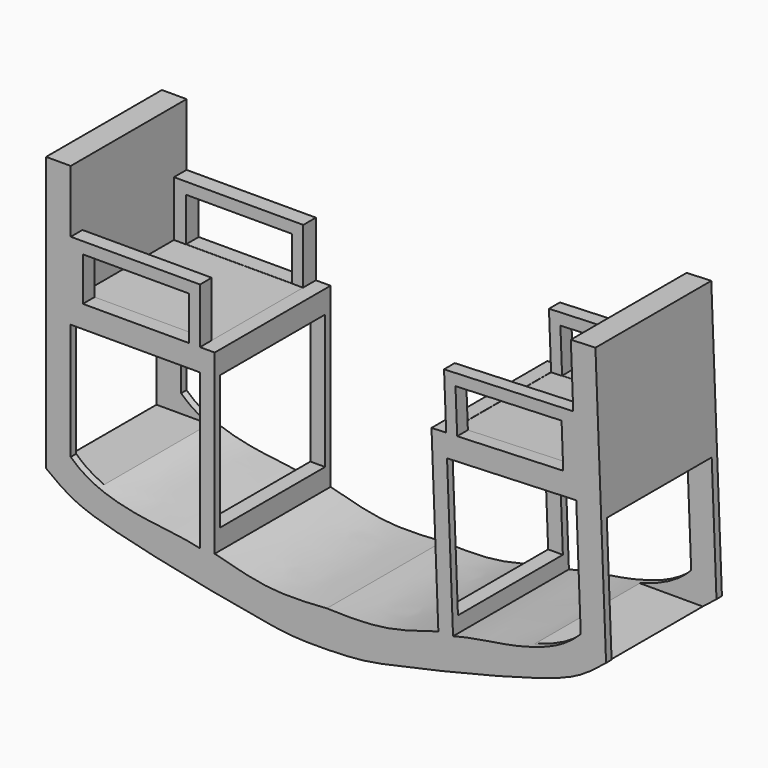
from build123d import *

# Parameters (mm, degrees)
F1_DEPTH = 25.4
F2_W     = 23.002351285
F2_H     = 23.5382290557
F3_DEPTH = 200
F4_W     = 22.6789787412
F4_H     = 20.0632547494
F5_DEPTH = 9.7
F6_W     = 22.6789787412
F6_H     = 20.6567810383
F7_DEPTH = 9.7


with BuildPart() as f1:
    # F0 (on Front) → F1 (new body)
    with BuildSketch(Plane.XZ):
        with BuildLine():
            Line((-88.0114324391, 44.9371878058), (-92.332277447, 44.9371878058))
            Line((-92.332277447, 44.9371878058), (-92.332277447, -3.1727263704))
            add(Edge.make_bspline(
                [(-92.332277447, -3.1727263704), (-90.1621250206, -4.8428116353), (-87.3784565002, -6.7092328778), (-81.1715490314, -8.8067426399), (-68.3223344623, -11.7452096222), (-52.7487966745, -14.6124342412), (-48.5107222082, -15.2044240054), (-42.9695285857, -15.1135046035)],
                knots=[0, 0, 0, 0, 0.1061199285, 0.2106615838, 0.3682095287, 0.5326224088, 0.6725216292, 0.6725216292, 0.6725216292, 0.6725216292], degree=3))
            Line((-42.9695285857, -15.1135046035), (-43.0925939554, -8.7688258267))
            add(Edge.make_bspline(
                [(-62.7548545599, -6.7295194604), (-59.4493670767, -7.6350430897), (-52.9059212561, -9.4275910387), (-46.3411198764, -8.9868982298), (-43.0925939554, -8.7688258267)],
                knots=[0, 0, 0, 0, 0.50516006, 1, 1, 1, 1], degree=3))
            Line((-62.7548545599, -6.7295194604), (-65.3324536979, -6.7295194604))
            add(Edge.make_bspline(
                [(-88.0114324391, 0), (-87.0734538531, -0.8836713226), (-84.3852284873, -2.9653247289), (-76.6297771142, -5.4632983452), (-68.5336425498, -5.9339730817), (-65.3324536979, -6.7295194604)],
                knots=[0, 0, 0, 0, 0.2503633507, 0.5945183664, 1, 1, 1, 1], degree=3))
            Line((-88.0114324391, 0), (-88.0114324391, 20.4308070242))
            Line((-88.0114324391, 20.4308070242), (-88.0114324391, 24.3352483958))
            Line((-88.0114324391, 24.3352483958), (-88.0114324391, 34.0071152896))
            Line((-88.0114324391, 34.0071152896), (-88.0114324391, 44.9371878058))
        make_face()
        with BuildLine():
            Line((-43.0925939554, -8.7688258267), (-42.9695285857, -15.1135046035))
            add(Edge.make_bspline(
                [(5.8930433958, -1.2674864281), (3.7892869814, -3.02047111), (1.0800895919, -4.9934354255), (-5.0408105659, -7.3300630778), (-17.7664104464, -10.764595205), (-33.2170470606, -14.233584173), (-37.4289771792, -14.989475527), (-42.9695285857, -15.1135046035)],
                knots=[0, 0, 0, 0, 0.1061199285, 0.2106615838, 0.3682095287, 0.5326224088, 0.6725216292, 0.6725216292, 0.6725216292, 0.6725216292], degree=3))
            Line((5.8930433958, -1.2674864281), (4.0274051514, 46.8062406583))
            Line((4.0274051514, 46.8062406583), (-0.2901898236, 46.6386840573))
            Line((-0.2901898236, 46.6386840573), (0.1336637968, 35.7168328718))
            Line((0.1336637968, 35.7168328718), (0.5087258829, 26.0522409176))
            Line((0.5087258829, 26.0522409176), (0.6601349068, 22.1507363704))
            Line((0.6601349068, 22.1507363704), (1.4524143278, 1.7352968948))
            add(Edge.make_bspline(
                [(1.4524143278, 1.7352968948), (0.5494088604, 0.8159166906), (-2.0560707486, -1.3684167382), (-9.7088205806, -4.1652574911), (-17.7806132945, -4.9495354876), (-20.9485440647, -5.8686213059)],
                knots=[0, 0, 0, 0, 0.2503633507, 0.5945183664, 1, 1, 1, 1], degree=3))
            Line((-20.9485440647, -5.8686213059), (-23.5242043963, -5.9685771594))
            add(Edge.make_bspline(
                [(-23.5242043963, -5.9685771594), (-26.792090576, -7.001602068), (-33.2611019617, -9.0465477999), (-39.8380549387, -8.8607607028), (-43.0925939554, -8.7688258267)],
                knots=[0, 0, 0, 0, 0.50516006, 1, 1, 1, 1], degree=3))
        make_face()
        Polygon((-24.7288546219, 25.0728245453), (-23.5242043963, -5.9685771594), (-20.9485440647, -5.8686213059), (-22.0017852664, 21.2712758516), (0.6601349068, 22.1507363704), (0.5087258829, 26.0522409176), (0.1336637968, 35.7168328718), (-22.5282563764, 34.837372353), (-22.1531942903, 25.1727803987), align=None)
        Polygon((-20.2248709389, 25.2476144923), (-20.5214146142, 32.8889456861), (-1.9144672145, 33.6110414083), (-1.6205286616, 25.9696091153), align=None, mode=Mode.SUBTRACT)
        Polygon((-65.3324536979, 34.0071152896), (-88.0114324391, 34.0071152896), (-88.0114324391, 24.3352483958), (-88.0114324391, 20.4308070242), (-65.3324536979, 20.4308070242), (-65.3324536979, -6.7295194604), (-62.7548545599, -6.7295194604), (-62.7548545599, 24.3352483958), (-65.3324536979, 24.3352483958), align=None)
        Polygon((-85.8805751163, 24.3352483958), (-85.8831821996, 31.9823315367), (-67.2622285783, 31.9823315367), (-67.2622285783, 24.3352483958), align=None, mode=Mode.SUBTRACT)
    extrude(amount=F1_DEPTH)

    # F2 (on face) → F3 (cut)
    with BuildSketch(Plane(origin=(-92.332277447, 0, 0), x_dir=(0, -1, 0), z_dir=(-1, 0, 0))):
        with Locations((12.6931375707, 8.5963881575)):
            Rectangle(F2_W, F2_H)
    extrude(amount=-F3_DEPTH, mode=Mode.SUBTRACT)

    # F4 (on face) → F5 (cut)
    with BuildSketch(Plane.XY.offset(34.0071152896)):
        with Locations((-76.6719430685, -12.7963220002)):
            Rectangle(F4_W, F4_H)
    extrude(amount=-F5_DEPTH, mode=Mode.SUBTRACT)

    # F6 (on face) → F7 (cut)
    with BuildSketch(Plane(origin=(-1.3838082935, 0, 35.6579430345), x_dir=(0.9992478247, 0, 0.038778665), z_dir=(-0.038778665, 0, 0.9992478247))):
        with Locations((-9.820875016, -12.7256970154)):
            Rectangle(F6_W, F6_H)
    extrude(amount=-F7_DEPTH, mode=Mode.SUBTRACT)


solid = f1.part
